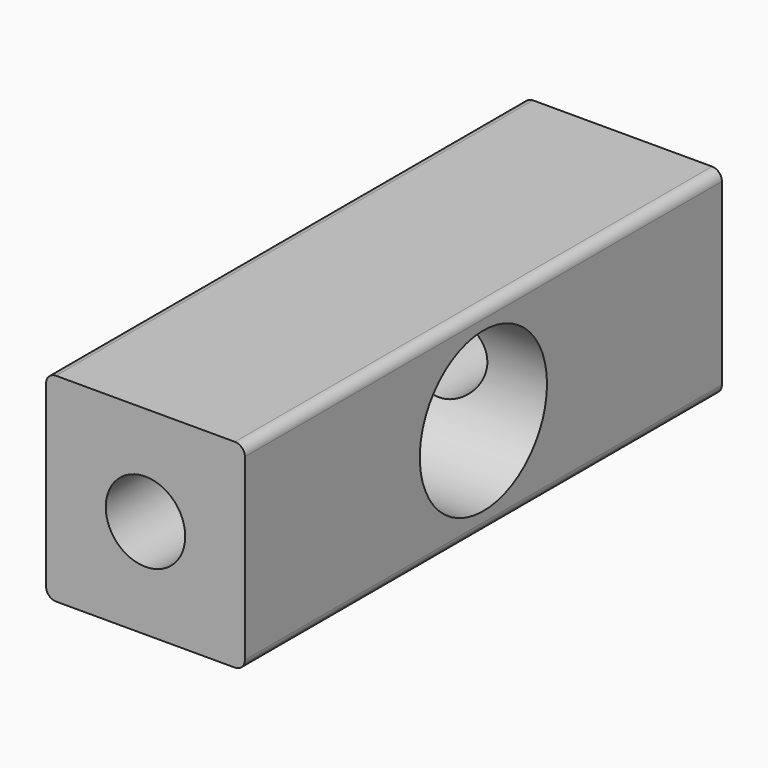
from build123d import *

# Parameters (mm, degrees)
F0_W     = 10
F0_H     = 10
F1_DEPTH = 30
F2_R     = 2
F3_DEPTH = 46.4
F4_R     = 4
F5_DEPTH = 25
F6_R     = 0.5


with BuildPart() as f1:
    # F0 (on Front) → F1 (new body)
    with BuildSketch(Plane.XZ):
        Rectangle(F0_W, F0_H)
    extrude(amount=F1_DEPTH)

    # F2 (on face) → F3 (cut)
    with BuildSketch(Plane.XZ.offset(30)):
        Circle(F2_R)
    extrude(amount=-F3_DEPTH, mode=Mode.SUBTRACT)

    # F4 (on face) → F5 (cut)
    with BuildSketch(Plane.YZ.offset(5)):
        with Locations((-15, 0)):
            Circle(F4_R)
    extrude(amount=-F5_DEPTH, mode=Mode.SUBTRACT)

    # F6
    f6_edges = [f1.edges().sort_by_distance(p)[0] for p in [
        (-5, -15, 5),
        (5, -15, -5),
        (5, -15, 5),
        (-5, -15, -5),
    ]]
    fillet(f6_edges, radius=F6_R)


solid = f1.part
